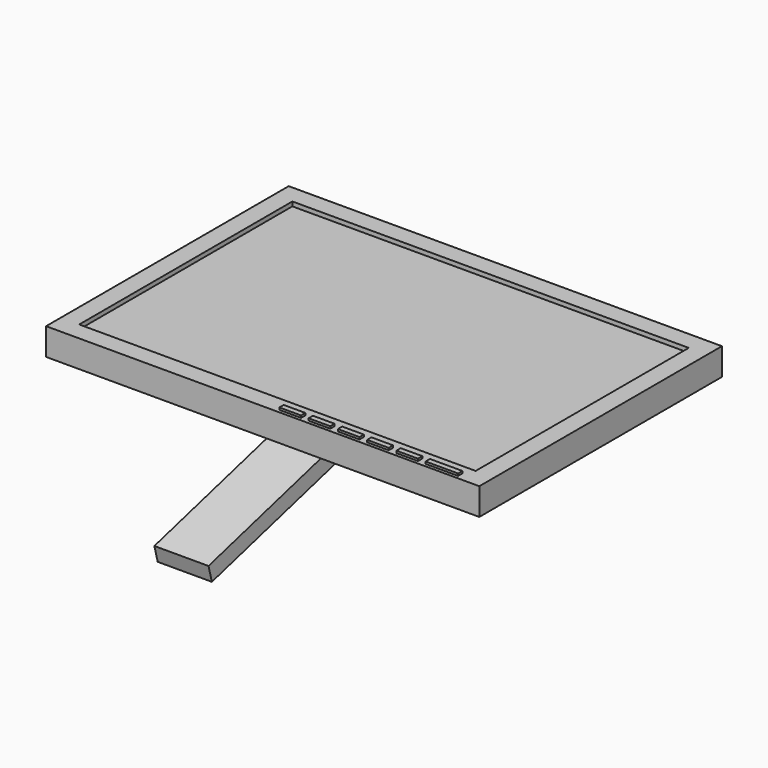
from build123d import *

# Parameters (mm, degrees)
F0_W      = 400
F0_H      = 280
F1_DEPTH  = 25
F2_W      = 366
F2_H      = 246
F3_DEPTH  = 4
F4_W      = 30
F4_H      = 5
F4_W_2    = 20
F5_DEPTH  = 2
F7_DEPTH  = 300
F8_W      = 75
F8_H      = 238.0099048197
F8_W_2    = 175
F9_DEPTH  = 15
F11_DEPTH = 300
F13_DEPTH = 300


with BuildPart() as f1:
    # F0 (on Top) → F1 (new body)
    with BuildSketch(Plane.XY):
        with Locations((-200, 140)):
            Rectangle(F0_W, F0_H)
    extrude(amount=F1_DEPTH)

    # F2 (on face) → F3 (cut)
    with BuildSketch(Plane.XY.offset(25)):
        with Locations((-200, 140)):
            Rectangle(F2_W, F2_H)
    extrude(amount=-F3_DEPTH, mode=Mode.SUBTRACT)

    # F4 (on face) → F5 (join)
    with BuildSketch(Plane.XY.offset(25)):
        with Locations((-37, 5.5)):
            Rectangle(F4_W, F4_H)
        with Locations((-177, 5.5)):
            Rectangle(F4_W_2, F4_H)
        with Locations((-150, 5.5)):
            Rectangle(F4_W_2, F4_H)
        with Locations((-123, 5.5)):
            Rectangle(F4_W_2, F4_H)
        with Locations((-96, 5.5)):
            Rectangle(F4_W_2, F4_H)
        with Locations((-69, 5.5)):
            Rectangle(F4_W_2, F4_H)
    extrude(amount=F5_DEPTH)

    # F6 (on face) → F7 (join)
    with BuildSketch(Plane.YZ):
        Polygon((140, 0), (125, 0), (-93.7821996545, -58.6225137157), (-89.8999139779, -73.1114011101), (140, -11.5099048197), align=None)
    extrude(amount=-F7_DEPTH)

    # F8 (on face) → F9 (cut)
    with BuildSketch(Plane(origin=(0, 12.25569794, -45.7388873943), x_dir=(1, 0, 0), z_dir=(0, 0.2588190451, -0.9659258263))):
        with Locations((-262.5, -13.245680696)):
            Rectangle(F8_W, F8_H)
        with Locations((-87.5, -13.245680696)):
            Rectangle(F8_W_2, F8_H)
    extrude(amount=-F9_DEPTH, mode=Mode.SUBTRACT)

    # F10 (on face) → F11 (cut)
    with BuildSketch(Plane.YZ):
        Polygon((136.9159302986, 0), (140, -11.5099048197), (140, 0), align=None)
    extrude(amount=-F11_DEPTH, mode=Mode.SUBTRACT)

    # F12 (on face) → F13 (join)
    with BuildSketch(Plane.YZ):
        Polygon((136.1177143235, 2.9789825747), (125, 0), (136.9159302986, 0), align=None)
    extrude(amount=-F13_DEPTH)


solid = f1.part
